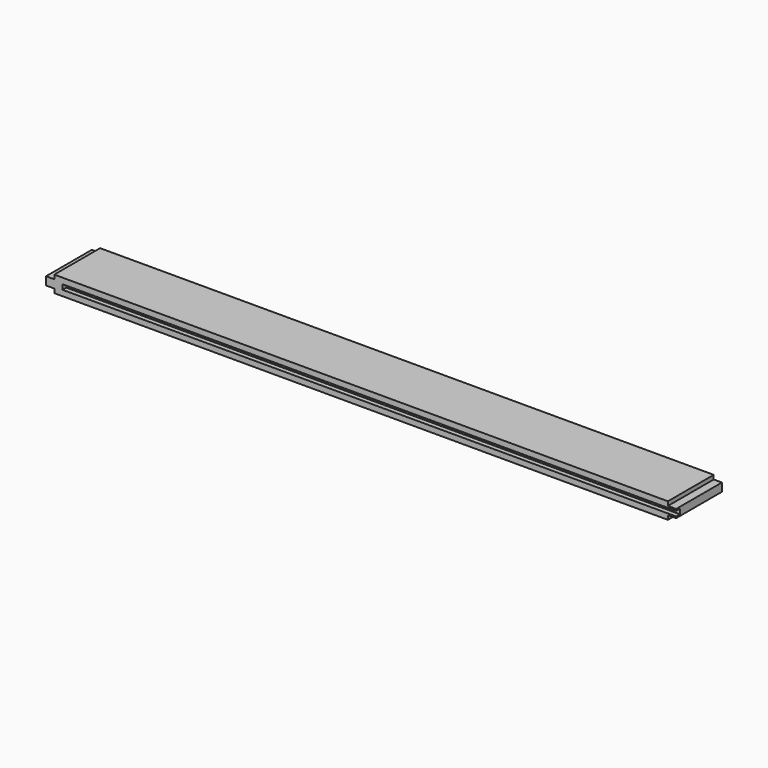
from build123d import *

# Parameters (mm, degrees)
F1_DEPTH      = 35
F2_W          = 3
F2_H          = 3
F3_DEPTH      = 187.5
F3_DEPTH_BACK = 187.5


with BuildPart() as f1:
    # F0 (on Front) → F1 (new body)
    with BuildSketch(Plane.XZ):
        Polygon((-226.934456, 2.5), (-226.934456, 0), (-226.934456, -2.5), (-221.934456, -2.5), (-221.934456, -5), (153.065544, -5), (153.065544, -2.5), (158.065544, -2.5), (158.065544, 2.5), (153.065544, 2.5), (153.065544, 5), (-221.934456, 5), (-221.934456, 2.5), align=None)
    extrude(amount=F1_DEPTH)


with BuildPart() as f3:
    # F2 (on Right) → F3 (new body, two sides)
    with BuildSketch(Plane.YZ) as f3_sk:
        with Locations((-32.222062, -1.036781)):
            Rectangle(F2_W, F2_H)
    extrude(amount=F3_DEPTH)
    extrude(f3_sk.sketch, amount=-F3_DEPTH_BACK)


with BuildPart() as f1_1:
    # F4: moved
    add(f1.part.moved(Location((29.4, 1.4, -1))))

    # F5: cut F3
    add(f3.part, mode=Mode.SUBTRACT)


solid = f1_1.part
